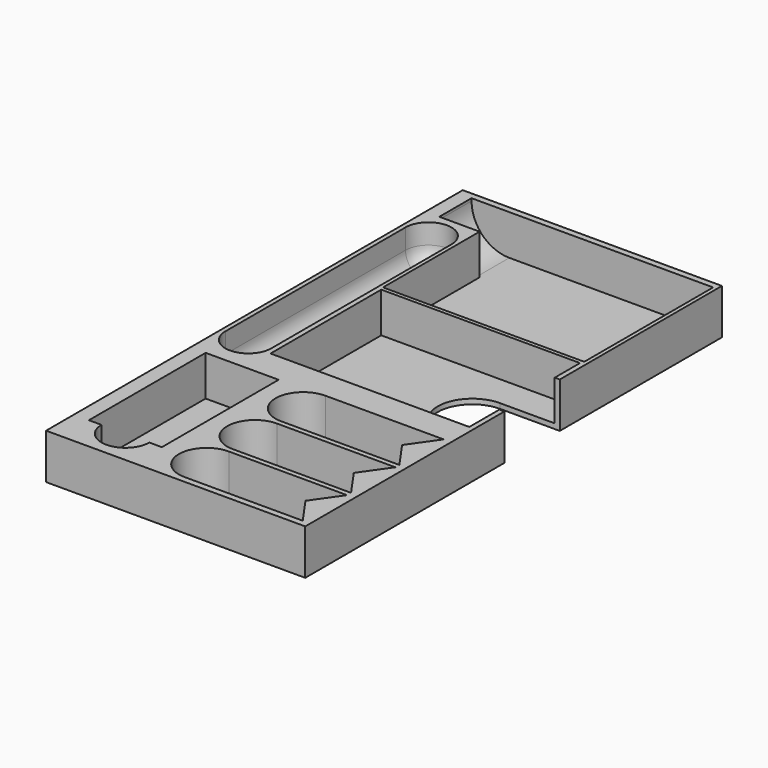
from build123d import *

# Parameters (mm, degrees)
SKETCH032_W            = 103
SKETCH032_H            = 207
PAD009_DEPTH           = 18
POCKET017_DEPTH        = 16
SKETCH034_W            = 55
SKETCH034_H            = 79
POCKET018_DEPTH        = 16
POCKET019_DEPTH        = 16
LINEARPATTERN002_COUNT = 3
LINEARPATTERN002_PITCH = 24
POCKET020_DEPTH        = 16
POCKET021_DEPTH        = 16
FILLET008_R            = 8
FILLET009_R            = 15
POCKET022_DEPTH        = 5
POCKET022_DEPTH_BACK   = 100


with BuildPart() as part:
    # Sketch032 → Pad009 (new body)
    with BuildSketch(Plane.XY):
        Rectangle(SKETCH032_W, SKETCH032_H)
    extrude(amount=PAD009_DEPTH)

    # Sketch029 (on Face6 of Pad009) → Pocket017 (cut)
    with BuildSketch(Plane(origin=(10, 69, 18), x_dir=(1, 0, 0), z_dir=(0, 0, 1))):
        Polygon((-40, -32), (40, -32), (40, 32), (-40, 32), (-56, 32), (-56, 16), (-40, 16), align=None)
    extrude(amount=-POCKET017_DEPTH, mode=Mode.SUBTRACT)

    # Sketch034 → Pocket018 (cut)
    with BuildSketch(Plane(origin=(-52, 30, 18), x_dir=(0, 1, 0), z_dir=(0, 0, 1))):
        with Locations((-22, -62)):
            Rectangle(SKETCH034_W, SKETCH034_H)
    extrude(amount=-POCKET018_DEPTH, mode=Mode.SUBTRACT)

    # Sketch030 → Pocket019 (cut)
    with BuildSketch(Plane(origin=(25, -90, 18), x_dir=(1, 0, 0), z_dir=(0, 0, 1))):
        with BuildLine():
            Line((-23.5, 11), (23.5, 11))
            Line((23.5, 11), (15.797717, 0))
            Line((15.797717, 0), (23.5, -11))
            Line((23.5, -11), (-23.5, -11))
            ThreePointArc((-23.5, 11), (-34.5, 0), (-23.5, -11))
        make_face()
    pocket019 = extrude(amount=-POCKET019_DEPTH, mode=Mode.SUBTRACT)

    # LinearPattern002: Pocket019 ×3
    with Locations(*[(0, i * LINEARPATTERN002_PITCH, 0) for i in range(1, LINEARPATTERN002_COUNT)]):
        add(pocket019, mode=Mode.SUBTRACT)

    # Sketch031 → Pocket020 (cut)
    with BuildSketch(Plane(origin=(-68, -55, 18), x_dir=(1, 0, 0), z_dir=(0, 0, 1))):
        with BuildLine():
            Line((51.488981, 23.283394), (51.488981, -34.716606))
            Line((51.488981, -34.716606), (46.488981, -34.716606))
            ThreePointArc((27.488981, -34.716606), (36.988981, -44.216606), (46.488981, -34.716606))
            Line((27.488981, -34.716606), (22.488981, -34.716606))
            Line((22.488981, -34.716606), (22.488981, 23.283394))
            Line((22.488981, 23.283394), (51.488981, 23.283394))
        make_face()
    extrude(amount=-POCKET020_DEPTH, mode=Mode.SUBTRACT)

    # Sketch033 → Pocket021 (cut)
    with BuildSketch(Plane(origin=(-60, 120, 18), x_dir=(1, 0, 0), z_dir=(0, 0, 1))):
        with BuildLine():
            ThreePointArc((10.250873, -136.6297), (19.384811, -145.763638), (28.518749, -136.6297))
            Line((28.518749, -136.6297), (28.518749, -47.133303))
            ThreePointArc((28.518749, -47.133303), (19.384811, -37.999364), (10.250873, -47.133303))
            Line((10.250873, -136.6297), (10.250873, -47.133303))
        make_face()
    extrude(amount=-POCKET021_DEPTH, mode=Mode.SUBTRACT)

    # Fillet008
    fillet008_edges = [part.edges().sort_by_distance(p)[0] for p in [
        (-40.615189, 82.000636, 2),
    ]]
    fillet(fillet008_edges, radius=FILLET008_R)

    # Fillet009
    fillet009_edges = [part.edges().sort_by_distance(p)[0] for p in [
        (-46, 93, 2),
    ]]
    fillet(fillet009_edges, radius=FILLET009_R)

    # Sketch035 → Pocket022 (cut, two sides)
    with BuildSketch(Plane(origin=(50, -35, 2), x_dir=(0, 1, 0), z_dir=(0, 0, 1))) as pocket022_sk:
        with BuildLine():
            ThreePointArc((30.448608, -4.073936), (44.198608, -17.823936), (57.948608, -4.073936))
            Line((57.948608, -4.073936), (57.948608, 22.259397))
            ThreePointArc((57.948608, 22.259397), (44.198608, 36.009397), (30.448608, 22.259397))
            Line((30.448608, -4.073936), (30.448608, 22.259397))
        make_face()
    extrude(amount=-POCKET022_DEPTH, mode=Mode.SUBTRACT)
    extrude(pocket022_sk.sketch, amount=POCKET022_DEPTH_BACK, mode=Mode.SUBTRACT)


solid = part.part
